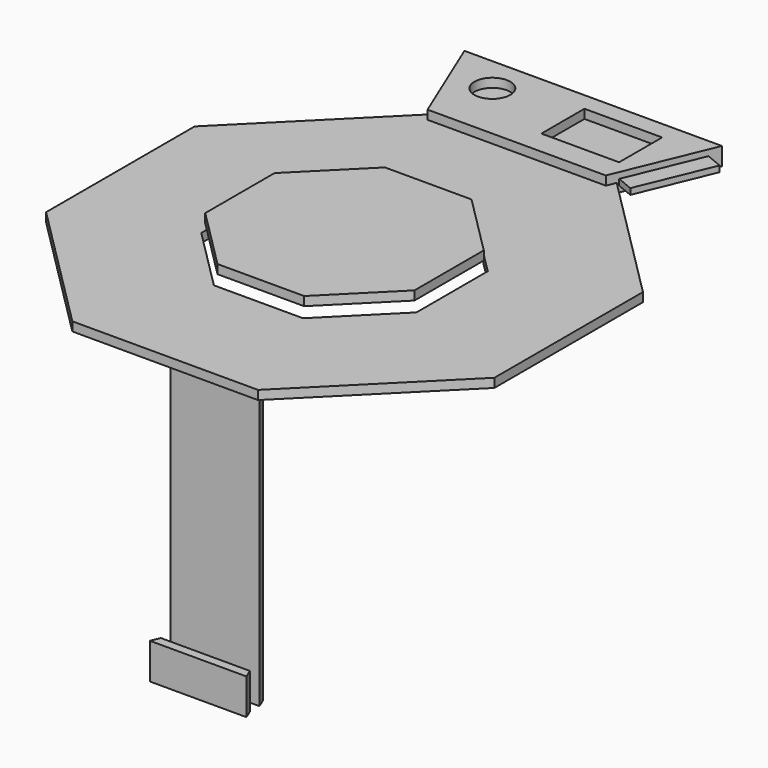
from build123d import *

# Parameters (mm, degrees)
F0_R      = 38.1
F0_W      = 165.1
F0_H      = 114.3
F1_DEPTH  = 38.1
F2_W      = 169.1420950994
F2_H      = 12.7
F3_DEPTH  = 38.1
F4_W      = 169.1420950994
F4_H      = 12.7
F5_DEPTH  = 38.1
F7_DEPTH  = 19.05
F9_DEPTH  = 19.05
F11_DEPTH = 685.8
F13_DEPTH = 19.05
F15_DEPTH = 76.2
F16_DEPTH = 19.05


with BuildPart() as f1:
    # F0 (on Top) → F1 (new body)
    with BuildSketch(Plane.XY):
        Polygon((273.5466365912, 660.4), (-273.5466365912, 660.4), (-189.378440717, 457.2), (189.378440717, 457.2), align=None)
        with Locations((-153.188152504, 584.2)):
            Circle(F0_R, mode=Mode.SUBTRACT)
        with Locations((94.461847496, 565.15)):
            Rectangle(F0_W, F0_H, mode=Mode.SUBTRACT)
    extrude(amount=F1_DEPTH)

    # F2 (on face) → F3 (cut)
    with BuildSketch(Plane(origin=(0, 0, 0), x_dir=(0.3826834324, -0.9238795325, 0), z_dir=(-0.9238795325, -0.3826834324, 0))):
        with Locations((-604.8407615234, 19.05)):
            Rectangle(F2_W, F2_H)
    extrude(amount=-F3_DEPTH, mode=Mode.SUBTRACT)

    # F4 (on face) → F5 (join)
    with BuildSketch(Plane(origin=(0, 0, 0), x_dir=(0.3826834324, 0.9238795325, 0), z_dir=(0.9238795325, -0.3826834324, 0))):
        with Locations((604.8407615234, 19.05)):
            Rectangle(F4_W, F4_H)
    extrude(amount=F5_DEPTH)

    # F6 (on face) → F7 (cut)
    with BuildSketch(Plane.XY):
        Polygon((-197.2692090802, 476.25), (-189.378440717, 457.2), (189.378440717, 457.2), (197.2692090802, 476.25), align=None)
    extrude(amount=F7_DEPTH, mode=Mode.SUBTRACT)

    # F0 (on Top) → F16 (join)
    with BuildSketch(Plane.XY):
        with Locations((-153.188152504, 584.2)):
            Circle(F0_R)
        with Locations((94.461847496, 565.15)):
            Rectangle(F0_W, F0_H)
    extrude(amount=F16_DEPTH)


with BuildPart() as f9:
    # F8 (on Top) → F9 (new body)
    with BuildSketch(Plane.XY):
        Polygon((-197.2692090802, -476.25), (197.2692090802, -476.25), (476.25, -197.2692090802), (476.25, 197.2692090802), (197.2692090802, 476.25), (-197.2692090802, 476.25), (-476.25, 197.2692090802), (-476.25, -197.2692090802), align=None)
        Polygon((228.6, -94.6892203585), (94.6892203585, -228.6), (-94.6892203585, -228.6), (-228.6, -94.6892203585), (-228.6, 94.6892203585), (-94.6892203585, 228.6), (94.6892203585, 228.6), (228.6, 94.6892203585), align=None, mode=Mode.SUBTRACT)
    extrude(amount=F9_DEPTH)


with BuildPart() as f11:
    # F10 (on Top) → F11 (new body)
    with BuildSketch(Plane.XY):
        Polygon((-126.2522938113, -304.8), (63.1250261887, -304.8), (55.2342578255, -285.75), (-118.3615254481, -285.75), align=None)
    extrude(amount=-F11_DEPTH)


with BuildPart() as f13:
    # F12 (on face) → F13 (new body)
    with BuildSketch(Plane.XY.offset(38.1)):
        Polygon((-92.0589642374, -222.25), (92.0589642374, -222.25), (222.25, -92.0589642374), (222.25, 92.0589642374), (92.0589642374, 222.25), (-92.0589642374, 222.25), (-222.25, 92.0589642374), (-222.25, -92.0589642374), align=None)
    extrude(amount=F13_DEPTH)


with BuildPart() as f15:
    # F14 (on face) → F15 (new body)
    with BuildSketch(Plane(origin=(0, 0, -685.8), x_dir=(1, 0, 0), z_dir=(0, 0, -1))):
        Polygon((-134.1430621745, 349.25), (-126.2522938113, 330.2), (63.1250261887, 330.2), (71.0157945519, 349.25), align=None)
    extrude(amount=-F15_DEPTH)


solid = Compound([f1.part, f9.part, f11.part, f13.part, f15.part])
